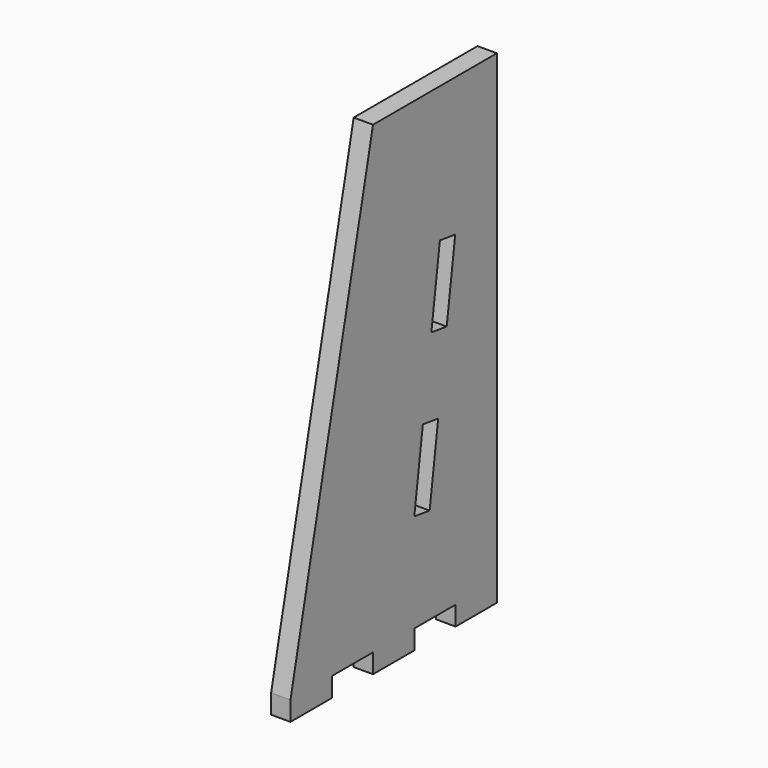
from build123d import *

# Parameters (mm, degrees)
F1_DEPTH = 19.05
F2_DEPTH = 19.05


with BuildPart() as f1:
    # F0 (on Right) → F1 (new body)
    with BuildSketch(Plane.YZ):
        Polygon((113.946683, 45.527574), (-38.453317, 45.527574), (-140.053317, -411.672426), (-140.053317, -430.722426), (-89.253317, -430.722426), (-89.253317, -411.672426), (-38.453317, -411.672426), (-38.453317, -430.722426), (12.346683, -430.722426), (12.346683, -411.672426), (63.146683, -411.672426), (63.146683, -430.722426), (113.946683, -430.722426), (113.946683, -411.672426), (113.946683, -335.472426), (113.946683, -259.272426), (113.946683, -183.072426), (113.946683, -106.872426), (113.946683, -30.672426), align=None)
        Polygon((22.834336, -239.086572), (41.703042, -241.708486), (31.215389, -317.18331), (12.346683, -314.561397), align=None, mode=Mode.SUBTRACT)
        Polygon((43.809643, -88.136923), (62.678349, -90.758837), (52.190696, -166.233661), (33.32199, -163.611748), align=None, mode=Mode.SUBTRACT)
    extrude(amount=F1_DEPTH)

    # F0 (on Right) → F2 (join)
    with BuildSketch(Plane.YZ):
        Polygon((113.946683, 45.527574), (-38.453317, 45.527574), (-140.053317, -411.672426), (-140.053317, -430.722426), (-89.253317, -430.722426), (-89.253317, -411.672426), (-38.453317, -411.672426), (-38.453317, -430.722426), (12.346683, -430.722426), (12.346683, -411.672426), (63.146683, -411.672426), (63.146683, -430.722426), (113.946683, -430.722426), (113.946683, -411.672426), (113.946683, -335.472426), (113.946683, -259.272426), (113.946683, -183.072426), (113.946683, -106.872426), (113.946683, -30.672426), align=None)
        Polygon((22.834336, -239.086572), (41.703042, -241.708486), (31.215389, -317.18331), (12.346683, -314.561397), align=None, mode=Mode.SUBTRACT)
        Polygon((43.809643, -88.136923), (62.678349, -90.758837), (52.190696, -166.233661), (33.32199, -163.611748), align=None, mode=Mode.SUBTRACT)
    extrude(amount=F2_DEPTH)


solid = f1.part
